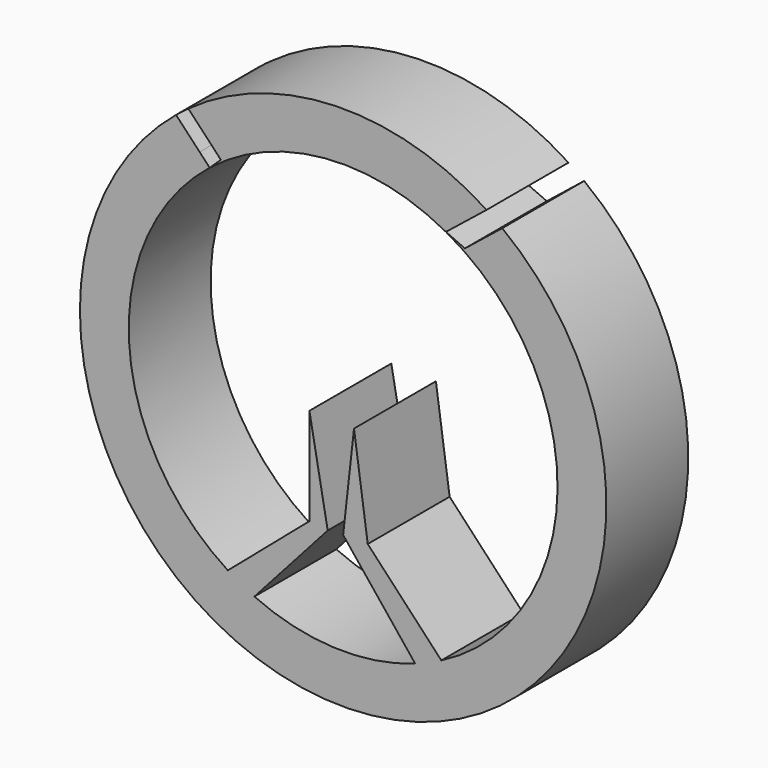
from build123d import *

# Parameters (mm, degrees)
F0_R     = 65.3157264909
F1_DEPTH = 25.4
F3_DEPTH = 25.4
F5_DEPTH = 25.4
F7_DEPTH = 25.4
F9_DEPTH = 25.4


with BuildPart() as f1:
    # F0 (on Front) → F1 (new body)
    with BuildSketch(Plane.XZ):
        Circle(F0_R)
    extrude(amount=F1_DEPTH)

    # F2 (on face) → F3 (cut)
    with BuildSketch(Plane.XZ.offset(25.4)):
        Polygon((-38.4182271411, 52.8221918361), (-41.4694152245, 50.4621811654), (-35.6072857976, 44.2608520389), (-32.8178254442, 46.8977347602), align=None)
        with BuildLine():
            ThreePointArc((39.4804287796, 52.0330651645), (37.5595862958, 53.436145111), (35.5889278088, 54.7683516682))
            Line((35.5889278088, 54.7683516682), (30.2165448666, 50.4621811654))
            Line((30.2165448666, 50.4621811654), (33.0735850542, 46.8977347602))
            Line((33.0735850542, 46.8977347602), (39.4804287796, 52.0330651645))
        make_face()
    extrude(amount=-F3_DEPTH, mode=Mode.SUBTRACT)

    # F4 (on face) → F5 (cut)
    with BuildSketch(Plane.XZ.offset(25.4)):
        with BuildLine():
            ThreePointArc((24.3610851999, -47.2958902978), (45.4224711355, -27.6977043655), (53.2011626863, 0))
            ThreePointArc((53.2011626863, 0), (-25.5768796637, 46.6496188392), (-28.6085883777, -44.8543463023))
            Line((-28.6085883777, -44.8543463023), (-8.3698397502, -27.5211706758))
            Line((-8.3698397502, -27.5211706758), (-8.3698397502, -3.4046808723))
            Line((-8.3698397502, -3.4046808723), (-3.8302657194, -28.0886162072))
            Line((-3.8302657194, -28.0886162072), (-22.0219158301, -48.429318954))
            ThreePointArc((-22.0219158301, -48.429318954), (-2.2358787042, -53.1541584224), (17.8770535247, -50.1076308405))
            Line((17.8770535247, -50.1076308405), (0, -27.8048943728))
            Line((0, -27.8048943728), (2.6953709312, -3.6884043366))
            Line((2.6953709312, -3.6884043366), (6.1000534333, -27.8048943728))
            Line((6.1000534333, -27.8048943728), (24.3610851999, -47.2958902978))
        make_face()
    extrude(amount=-F5_DEPTH, mode=Mode.SUBTRACT)

    # F6 (on face) → F7 (cut)
    with BuildSketch(Plane.XZ.offset(25.4)):
        Polygon((-32.8178254442, 46.8977347602), (-35.6072857976, 44.2608520389), (-33.1226048826, 41.6324003268), (-30.3420633808, 44.2608520389), align=None)
        Polygon((30.2165448666, 50.4621811654), (25.5074180222, 46.6876358045), (33.0735850542, 46.8977347602), align=None)
        Polygon((33.0735850542, 46.8977347602), (25.5074180222, 46.6876358045), (30.2165448666, 44.607707725), align=None)
    extrude(amount=-F7_DEPTH, mode=Mode.SUBTRACT)

    # F8 (on face) → F9 (cut)
    with BuildSketch(Plane.XZ.offset(25.4)):
        with BuildLine():
            Line((28.7985692311, 41.3972952134), (29.9383787891, 43.977917034))
            ThreePointArc((29.9383787891, 43.977917034), (27.7559856601, 45.3868810474), (25.5074180222, 46.6876358045))
            Line((25.5074180222, 46.6876358045), (28.7985692311, 41.3972952134))
        make_face()
    extrude(amount=-F9_DEPTH, mode=Mode.SUBTRACT)


solid = f1.part
